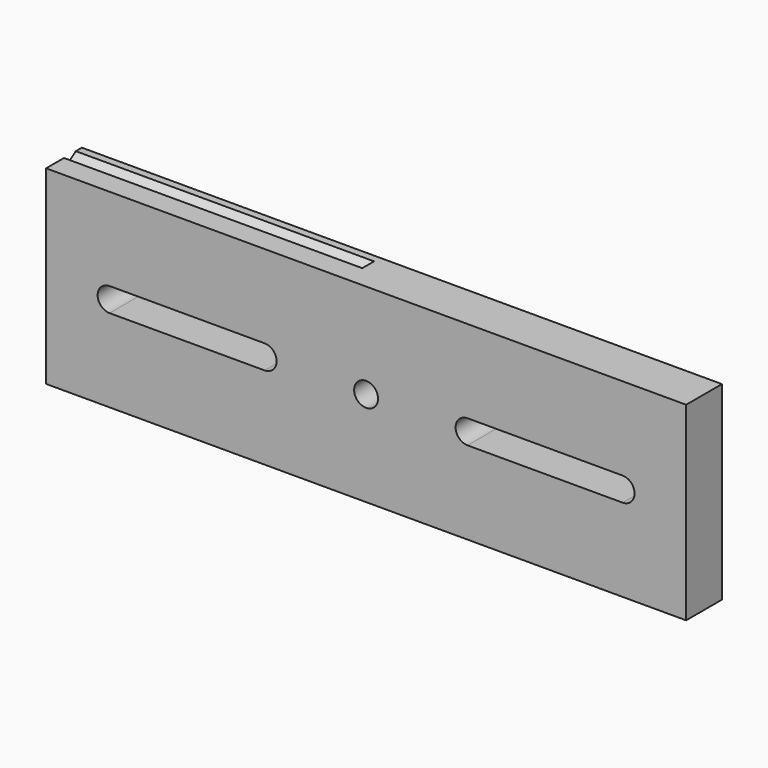
from build123d import *

# Parameters (mm, degrees)
F0_W     = 54.497833
F0_H     = 16.162731
F0_R     = 1.016
F1_DEPTH = 3.81
F3_DEPTH = 25.4


with BuildPart() as f1:
    # F0 (on Front) → F1 (new body)
    with BuildSketch(Plane.XZ):
        with Locations((-1.453081, 21.071408)):
            Rectangle(F0_W, F0_H)
        with BuildLine():
            ThreePointArc((-23.297081, 20.055408), (-24.313081, 21.071408), (-23.297081, 22.087408))
            Line((-23.297081, 22.087408), (-10.089081, 22.087408))
            ThreePointArc((-10.089081, 22.087408), (-9.073081, 21.071408), (-10.089081, 20.055408))
            Line((-10.089081, 20.055408), (-23.297081, 20.055408))
        make_face(mode=Mode.SUBTRACT)
        with BuildLine():
            ThreePointArc((20.390919, 22.087408), (21.406919, 21.071408), (20.390919, 20.055408))
            Line((20.390919, 20.055408), (7.182919, 20.055408))
            ThreePointArc((7.182919, 20.055408), (6.166919, 21.071408), (7.182919, 22.087408))
            Line((7.182919, 22.087408), (20.390919, 22.087408))
        make_face(mode=Mode.SUBTRACT)
        with Locations((-1.453081, 21.071408)):
            Circle(F0_R, mode=Mode.SUBTRACT)
    extrude(amount=F1_DEPTH)

    # F2 (on face) → F3 (cut)
    with BuildSketch(Plane(origin=(-28.701998, 0, 0), x_dir=(0, -1, 0), z_dir=(-1, 0, 0))):
        Polygon((1.905, 28.285336), (1.905, 29.152774), (0.649936, 29.152774), align=None)
    extrude(amount=-F3_DEPTH, mode=Mode.SUBTRACT)


solid = f1.part
